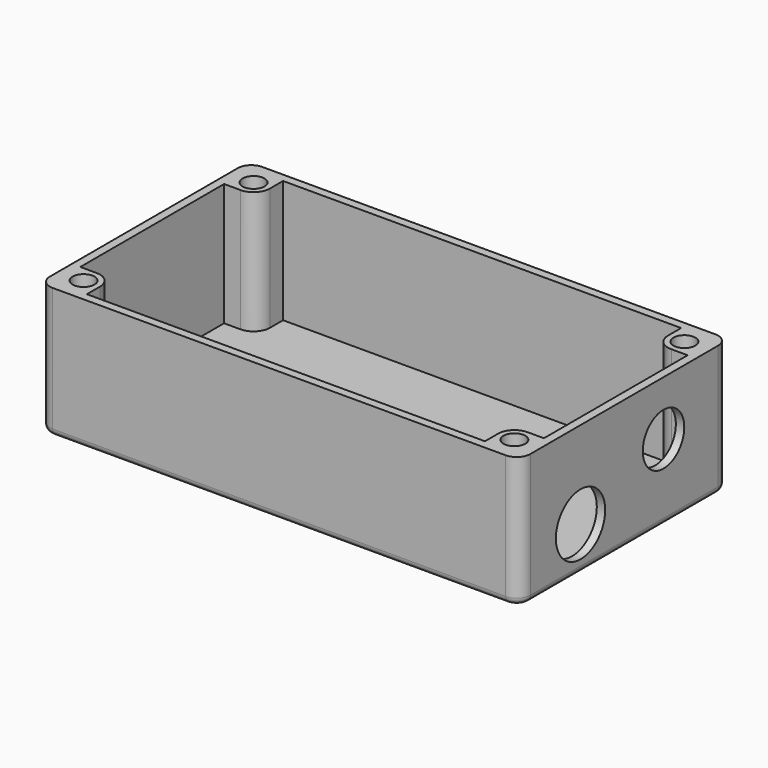
from build123d import *

# Parameters (mm, degrees)
F0_W      = 111.76
F0_H      = 60.96
F1_DEPTH  = 30.48
F2_T      = -1.9558
F4_DEPTH  = 28.5242
F5_R      = 2.54
F6_DEPTH  = 25.4
F9_R      = 3.175
F10_R     = 1.5875
F11_R     = 7.1755
F12_DEPTH = 1.9558
F13_R     = 6.0325
F14_DEPTH = 1.9558
F15_R     = 9.525
F16_DEPTH = 30.481


with BuildPart() as f1:
    # F0 (on Top) → F1 (new body)
    with BuildSketch(Plane.XY):
        Rectangle(F0_W, F0_H)
    extrude(amount=F1_DEPTH)

    # F2
    f2_openings = [f1.faces().sort_by_distance(p)[0] for p in [
        (0, 0, 30.48),
    ]]
    offset(amount=F2_T, openings=f2_openings)

    # F3 (on face) → F4 (join, through all)
    with BuildSketch(Plane.XY.offset(30.48)):
        with BuildLine():
            Line((-53.9242, 20.9042), (-50.1142, 20.9042))
            ThreePointArc((-50.1142, 20.9042), (-47.4201231637, 22.0201231637), (-46.3042, 24.7142))
            Line((-46.3042, 24.7142), (-46.3042, 28.5242))
            Line((-46.3042, 28.5242), (-53.9242, 28.5242))
            Line((-53.9242, 28.5242), (-53.9242, 20.9042))
        make_face()
    extrude(amount=-F4_DEPTH)

    # F5 (on face) → F6 (cut)
    with BuildSketch(Plane.XY.offset(30.48)):
        with Locations((-50.1142, 24.7142)):
            Circle(F5_R)
    extrude(amount=-F6_DEPTH, mode=Mode.SUBTRACT)

    # F7: F1 across plane


with BuildPart() as f1_1:
    add(f1.part)
    add(f1.part.mirror(Plane.YZ))

    # F8: F1 across plane


with BuildPart() as f1_2:
    add(f1_1.part)
    add(f1_1.part.mirror(Plane.XZ))

    # F9
    f9_edges = [f1_2.edges().sort_by_distance(p)[0] for p in [
        (-55.88, 30.48, 15.24),
        (-55.88, -30.48, 15.24),
        (55.88, -30.48, 15.24),
        (55.88, 30.48, 15.24),
    ]]
    fillet(f9_edges, radius=F9_R)

    # F10
    f10_edges = [f1_2.edges().sort_by_distance(p)[0] for p in [
        (0, -30.48, 0),
        (-54.950064, -29.550064, 0),
        (54.950064, -29.550064, 0),
        (-55.88, 0, 0),
        (55.88, 0, 0),
        (-54.950064, 29.550064, 0),
        (54.950064, 29.550064, 0),
        (0, 30.48, 0),
    ]]
    fillet(f10_edges, radius=F10_R)

    # F11 (on face) → F12 (cut, through all)
    with BuildSketch(Plane.YZ.offset(55.88)):
        with Locations((-12.7, 10.16)):
            Circle(F11_R)
    extrude(amount=-F12_DEPTH, mode=Mode.SUBTRACT)

    # F13 (on face) → F14 (cut, through all)
    with BuildSketch(Plane.YZ.offset(55.88)):
        with Locations((11.43, 17.78)):
            Circle(F13_R)
    extrude(amount=-F14_DEPTH, mode=Mode.SUBTRACT)

    # F15 (on face) → F16 (cut, through all)
    with BuildSketch(Plane(origin=(0, 0, 0), x_dir=(1, 0, 0), z_dir=(0, 0, -1))):
        with Locations((-25.4, 0)):
            Circle(F15_R)
    extrude(amount=-F16_DEPTH, mode=Mode.SUBTRACT)


solid = f1_2.part
